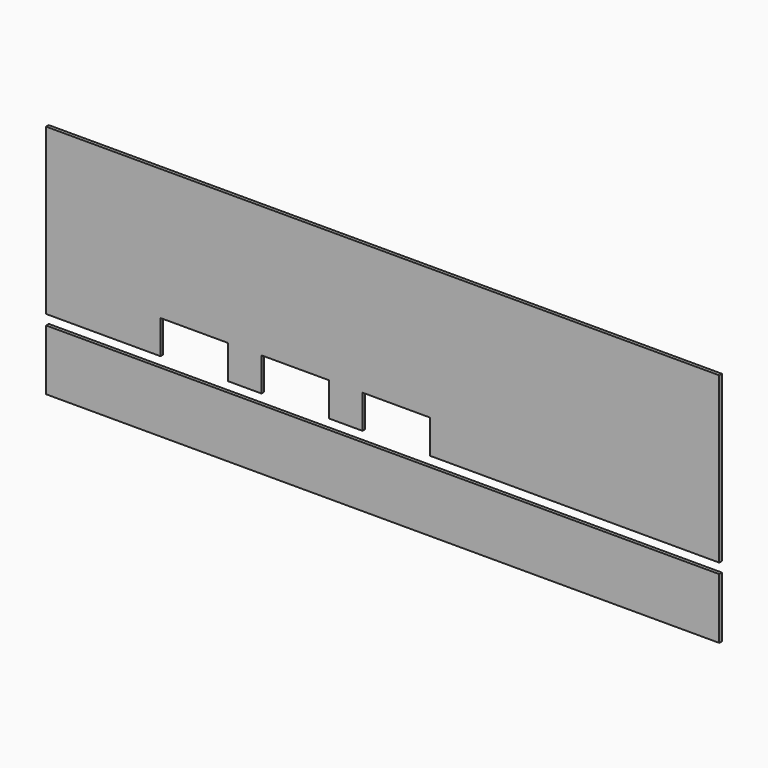
from build123d import *

# Parameters (mm, degrees)
F0_W     = 20
F0_H     = 10
F1_DEPTH = 1
F2_W     = 200
F2_H     = 70
F3_DEPTH = 1


with BuildPart() as f1:
    # F0 (on Front) → F1 (new body)
    with BuildSketch(Plane.XZ):
        Polygon((0, 21), (0, 18), (200, 18), (200, 21), (114, 21), (94, 21), (84, 21), (64, 21), (54, 21), (34, 21), align=None)
        with Locations((44, 26)):
            Rectangle(F0_W, F0_H)
        with Locations((104, 26)):
            Rectangle(F0_W, F0_H)
        with Locations((74, 26)):
            Rectangle(F0_W, F0_H)
    extrude(amount=F1_DEPTH)


with BuildPart() as f3:
    # F2 (on Front) → F3 (new body)
    with BuildSketch(Plane.XZ):
        with Locations((100, 35)):
            Rectangle(F2_W, F2_H)
    extrude(amount=F3_DEPTH)

    # F4: cut F1
    add(f1.part, mode=Mode.SUBTRACT)


solid = f3.part
